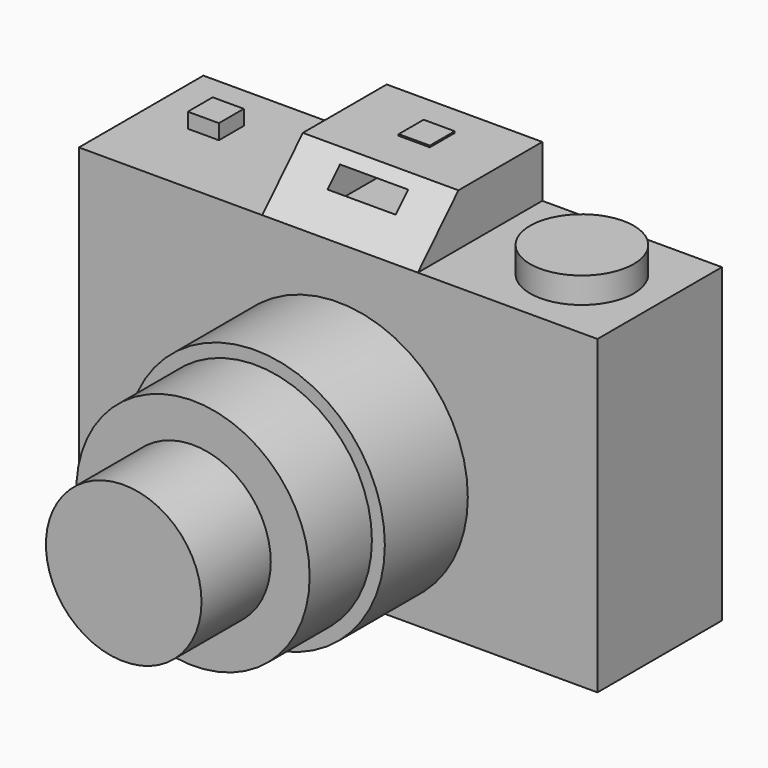
from build123d import *

# Parameters (mm, degrees)
F0_W      = 100
F0_H      = 30
F1_DEPTH  = 60
F2_W      = 6
F2_H      = 6
F3_DEPTH  = 2.9
F4_W      = 30
F4_H      = 30
F5_DEPTH  = 10
F7_DEPTH  = 30
F8_R      = 10
F9_DEPTH  = 5
F10_R     = 25
F11_DEPTH = 20
F12_W     = 13.155363
F12_H     = 5.945411
F13_DEPTH = 25
F14_W     = 80
F14_H     = 47.04293
F15_DEPTH = 1
F16_R     = 3
F17_DEPTH = 1
F18_W     = 6
F18_H     = 6
F19_DEPTH = 0.3
F20_R     = 22.5
F21_DEPTH = 15
F22_R     = 15
F23_DEPTH = 16.7


with BuildPart() as f1:
    # F0 (on Top) → F1 (new body)
    with BuildSketch(Plane.XY):
        with Locations((-20.653479, -13.014261)):
            Rectangle(F0_W, F0_H)
    extrude(amount=-F1_DEPTH)

    # F2 (on face) → F3 (join)
    with BuildSketch(Plane.XY):
        with Locations((-58.653479, -10.014261)):
            Rectangle(F2_W, F2_H)
    extrude(amount=F3_DEPTH)

    # F4 (on face) → F5 (join)
    with BuildSketch(Plane.XY):
        with Locations((-20.292342, -13.014261)):
            Rectangle(F4_W, F4_H)
    extrude(amount=F5_DEPTH)

    # F6 (on face) → F7 (cut)
    with BuildSketch(Plane.YZ.offset(-5.292342)):
        Polygon((-18.235888, 10), (-28.014261, 10), (-28.014261, 0), align=None)
    extrude(amount=-F7_DEPTH, mode=Mode.SUBTRACT)

    # F8 (on face) → F9 (join)
    with BuildSketch(Plane.XY):
        with Locations((14.346521, -13.014261)):
            Circle(F8_R)
    extrude(amount=F9_DEPTH)

    # F10 (on face) → F11 (join)
    with BuildSketch(Plane.XZ.offset(28.014261)):
        with Locations((-20.653479, -35)):
            Circle(F10_R)
    extrude(amount=F11_DEPTH)

    # F12 (on face) → F13 (cut)
    with BuildSketch(Plane(origin=(0, 1.985739, 0), x_dir=(-1, 0, 0), z_dir=(0, 1, 0))):
        with Locations((20.129042, 5.192092)):
            Rectangle(F12_W, F12_H)
    extrude(amount=-F13_DEPTH, mode=Mode.SUBTRACT)

    # F14 (on face) → F15 (cut)
    with BuildSketch(Plane(origin=(0, 1.985739, 0), x_dir=(-1, 0, 0), z_dir=(0, 1, 0))):
        with Locations((20.653479, -30.478535)):
            Rectangle(F14_W, F14_H)
    extrude(amount=-F15_DEPTH, mode=Mode.SUBTRACT)

    # F16 (on face) → F17 (join)
    with BuildSketch(Plane(origin=(0, 0, -60), x_dir=(1, 0, 0), z_dir=(0, 0, -1))):
        with Locations((-55.653479, 13.014261)):
            Circle(F16_R)
        with Locations((14.346521, 13.014261)):
            Circle(F16_R)
    extrude(amount=F17_DEPTH)

    # F18 (on face) → F19 (join)
    with BuildSketch(Plane.XY.offset(10)):
        with Locations((-20.406025, -6.980354)):
            Rectangle(F18_W, F18_H)
    extrude(amount=F19_DEPTH)

    # F20 (on face) → F21 (join)
    with BuildSketch(Plane.XZ.offset(48.014261)):
        with Locations((-20.653479, -35)):
            Circle(F20_R)
    extrude(amount=F21_DEPTH)

    # F22 (on face) → F23 (join)
    with BuildSketch(Plane.XZ.offset(63.014261)):
        with Locations((-20.653479, -35)):
            Circle(F22_R)
    extrude(amount=F23_DEPTH)


solid = f1.part
